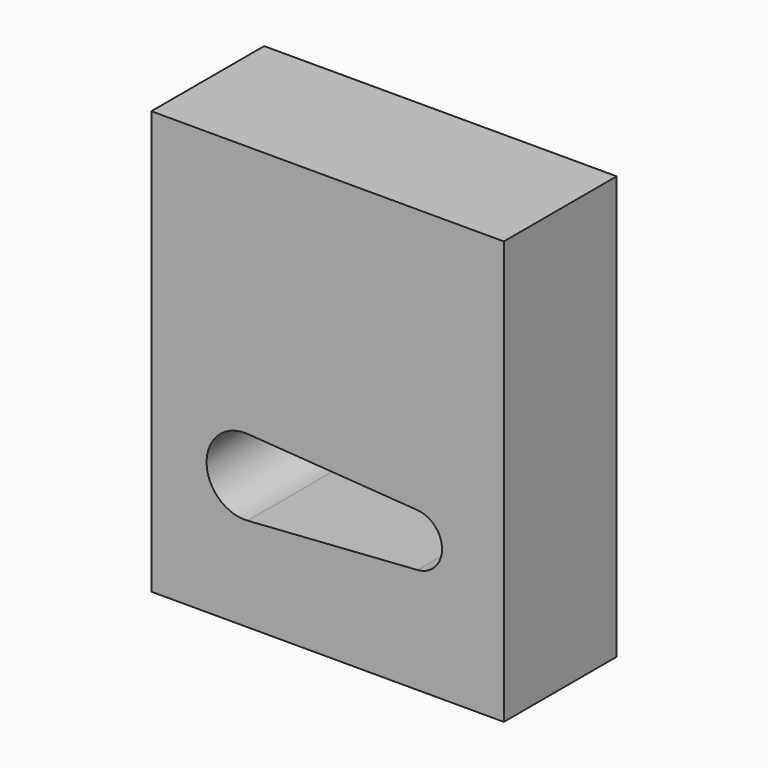
from build123d import *

# Parameters (mm, degrees)
F0_W          = 127
F0_H          = 152.4
F1_DEPTH      = 25.4
F1_DEPTH_BACK = 25.4
F3_DEPTH      = 50.801


with BuildPart() as f1:
    # F0 (on Front) → F1 (new body, two sides)
    with BuildSketch(Plane.XZ) as f1_sk:
        with Locations((63.5, 76.2)):
            Rectangle(F0_W, F0_H)
    extrude(amount=F1_DEPTH)
    extrude(f1_sk.sketch, amount=-F1_DEPTH_BACK)

    # F2 (on face) → F3 (cut, through all)
    with BuildSketch(Plane.XZ.offset(25.4)):
        with BuildLine():
            Line((34.656941, 33.802745), (95.884816, 38.070348))
            ThreePointArc((95.884816, 38.070348), (104.736954, 47.56096), (95.884816, 57.051572))
            Line((95.884816, 57.051572), (34.656941, 61.319176))
            ThreePointArc((34.656941, 61.319176), (19.906394, 47.56096), (34.656941, 33.802745))
        make_face()
    extrude(amount=-F3_DEPTH, mode=Mode.SUBTRACT)


solid = f1.part
